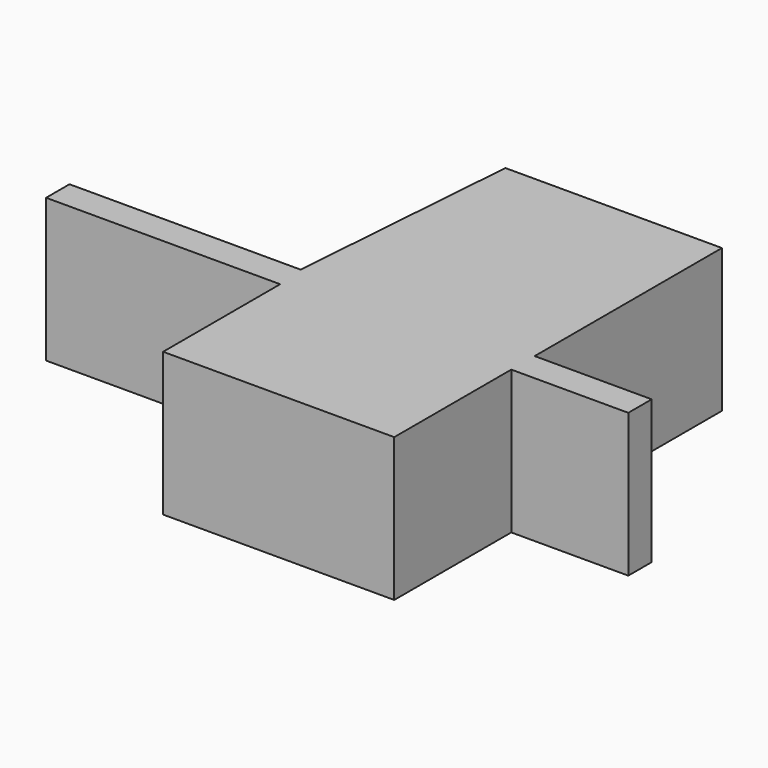
from build123d import *

# Parameters (mm, degrees)
F0_W     = 7.9
F0_H     = 5
F1_DEPTH = 4.9


with BuildPart() as f1:
    # F0 (on Top) → F1 (new body)
    with BuildSketch(Plane.XY):
        Rectangle(F0_W, F0_H)
        Polygon((-3.95, 2.5), (3.95, 2.5), (7.95, 2.5), (7.95, 3.5), (3.95, 3.5), (-4.05, 3.5), (-11.95, 3.5), (-11.95, 2.5), align=None)
        Polygon((-4.05, 3.5), (3.95, 3.5), (3.95, 11.5), (-3.45, 11.5), align=None)
    extrude(amount=F1_DEPTH)


solid = f1.part
